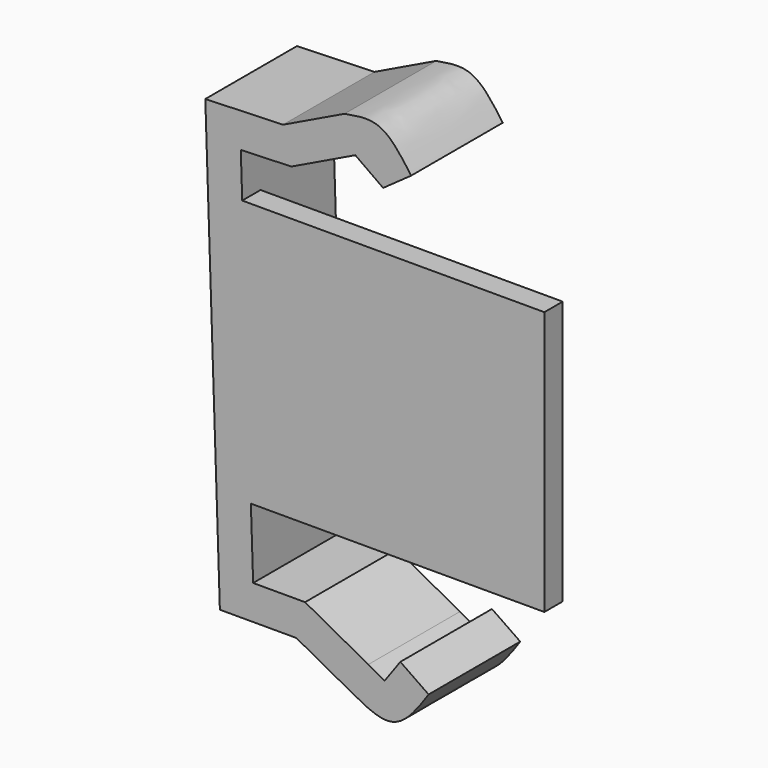
from build123d import *

# Parameters (mm, degrees)
F1_DEPTH = 5
F3_DEPTH = 1


with BuildPart() as f1:
    # F0 (on Front) → F1 (new body)
    with BuildSketch(Plane.XZ):
        with BuildLine():
            Line((-15.0776144803, 1.6427872158), (-18.4649782981, 1.5319280304))
            Line((-18.4649782981, 1.5319280304), (-17.8293217192, -17.8909108378))
            Line((-17.8293217192, -17.8909108378), (-14.4905563663, -17.8909108378))
            Line((-14.4905563663, -17.8909108378), (-12.0639996603, -19.206346944))
            add(Edge.make_bspline(
                [(-12.0639996603, -19.206346944), (-11.4412471755, -19.5439411135), (-10.1404710364, -20.2490919578), (-9.2044054161, -18.8912095292), (-8.7164854631, -18.1834194809)],
                knots=[0, 0, 0, 0, 0.478754542, 1, 1, 1, 1], degree=3))
            Line((-8.7164854631, -18.1834194809), (-9.9514767776, -17.3320696979))
            Line((-9.9514767776, -17.3320696979), (-10.6422085778, -18.2908269155))
            Line((-10.6422085778, -18.2908269155), (-11.3491330915, -17.8876484231))
            Line((-11.3491330915, -17.8876484231), (-14.1101327385, -16.3909108378))
            Line((-14.1101327385, -16.3909108378), (-16.3776095401, -16.3909108378))
            Line((-16.3776095401, -16.3909108378), (-16.9167163164, 0.0817953343))
            Line((-16.9167163164, 0.0817953343), (-14.7119183465, 0.1539523627))
            Line((-14.7119183465, 0.1539523627), (-11.9170931806, 1.5005592809))
            Line((-11.9170931806, 1.5005592809), (-10.702321371, 0.6382402042))
            Line((-10.702321371, 0.6382402042), (-9.4795711339, 1.507079578))
            add(Edge.make_bspline(
                [(-12.3842386529, 2.9405136593), (-11.8536744636, 3.0377356101), (-10.715405072, 3.2463150299), (-9.909716404, 2.1124391496), (-9.4795711339, 1.507079578)],
                knots=[0, 0, 0, 0, 0.4661147819, 1, 1, 1, 1], degree=3))
            Line((-12.3842386529, 2.9405136593), (-15.0776144803, 1.6427872158))
        make_face()
    extrude(amount=-F1_DEPTH)

    # F2 (on face) → F3 (join)
    with BuildSketch(Plane.XZ):
        Polygon((-3.6635560682, -1.8487549387), (-16.8535346678, -1.8487549387), (-16.4764060475, -13.3721288294), (-3.6635560682, -13.3721288294), align=None)
    extrude(amount=-F3_DEPTH)


with BuildPart() as f4_1:
    # F4: copy of F1
    add(f1.part)


solid = Compound([f1.part, f4_1.part])
